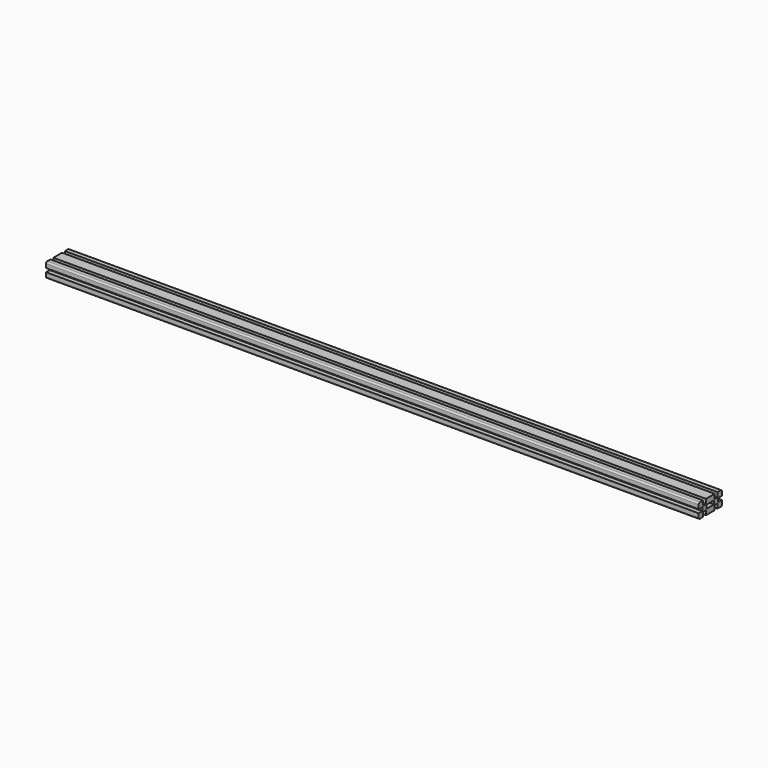
from build123d import *

# Parameters (mm, degrees)
F1_DEPTH = 450
F2_W     = 12.7
F2_H     = 5
F3_DEPTH = 900
F4_R     = 2


with BuildPart() as f1:
    # F0 (on Right) → F1 (new body, symmetric)
    with BuildSketch(Plane.YZ):
        Polygon((20, 2.5), (20, 10), (12.5, 10), (12.5, 3.65), (7.5, 3.65), (7.5, 10), (-7.5, 10), (-7.5, 3.65), (-12.5, 3.65), (-12.5, 10), (-20, 10), (-20, 2.5), (-13.65, 2.5), (-13.65, -2.5), (-20, -2.5), (-20, -10), (-12.5, -10), (-12.5, -3.65), (-7.5, -3.65), (-7.5, -10), (7.5, -10), (7.5, -3.65), (12.5, -3.65), (12.5, -10), (20, -10), (20, -2.5), (13.65, -2.5), (13.65, 2.5), align=None)
    extrude(amount=F1_DEPTH, both=True)

    # F2 (on face) → F3 (cut)
    with BuildSketch(Plane(origin=(-450, 0, 0), x_dir=(0, -1, 0), z_dir=(-1, 0, 0))):
        Rectangle(F2_W, F2_H)
    extrude(amount=-F3_DEPTH, mode=Mode.SUBTRACT)

    # F4
    f4_edges = [f1.edges().sort_by_distance(p)[0] for p in [
        (0, 20, 10),
        (0, -20, -10),
        (0, 20, -10),
        (0, -20, 10),
    ]]
    fillet(f4_edges, radius=F4_R)


solid = f1.part
